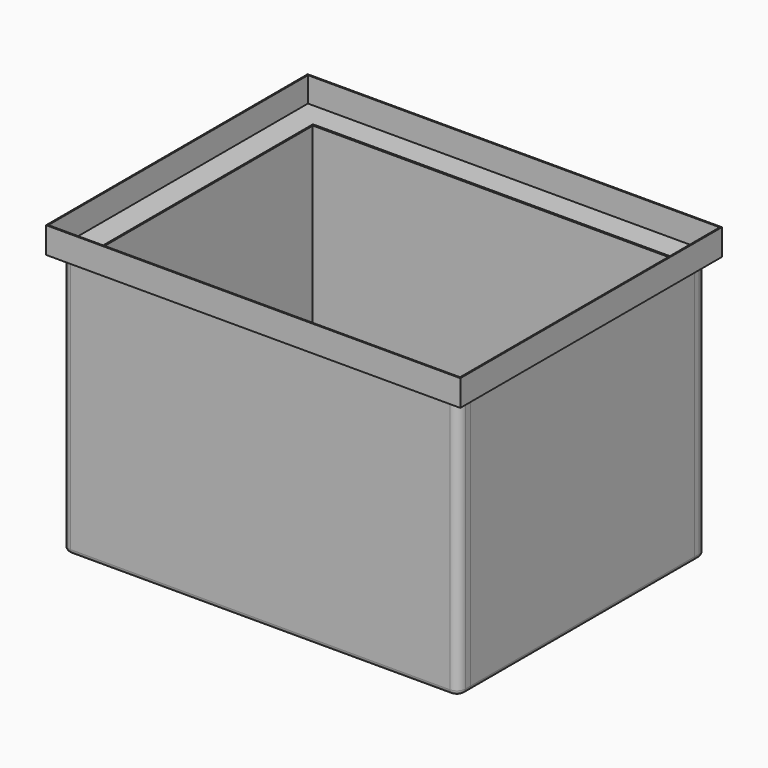
from build123d import *

# Parameters (mm, degrees)
F0_W      = 455
F0_H      = 17
F1_DEPTH  = 300
F2_R      = 10
F3_R      = 5
F4_W      = 17
F4_H      = 321
F5_DEPTH  = 300
F6_R      = 5
F9_W      = 475
F9_H      = 375
F9_W_2    = 415
F9_H_2    = 315
F10_DEPTH = 30
F11_T     = -1.4


with BuildPart() as f1:
    # F0 (on Top) → F1 (new body)
    with BuildSketch(Plane.XY):
        with Locations((0, -169)):
            Rectangle(F0_W, F0_H)
    extrude(amount=F1_DEPTH)

    # F2
    f2_edges = [f1.edges().sort_by_distance(p)[0] for p in [
        (-227.5, -177.5, 150),
        (227.5, -177.5, 150),
    ]]
    fillet(f2_edges, radius=F2_R)

    # F3
    f3_edges = [f1.edges().sort_by_distance(p)[0] for p in [
        (0, -177.5, 0),
    ]]
    fillet(f3_edges, radius=F3_R)


with BuildPart() as f5:
    # F4 (on Top) → F5 (new body)
    with BuildSketch(Plane.XY):
        with Locations((-219, 0)):
            Rectangle(F4_W, F4_H)
    extrude(amount=F5_DEPTH)

    # F6
    f6_edges = [f5.edges().sort_by_distance(p)[0] for p in [
        (-227.5, 0, 0),
    ]]
    fillet(f6_edges, radius=F6_R)


with BuildPart() as f7_1:
    # F7: instance of F1
    add(f1.part.mirror(Plane.XZ))


with BuildPart() as f8_1:
    # F8: instance of F5
    add(f5.part.mirror(Plane.YZ))


with BuildPart() as f10:
    # F9 (on face) → F10 (new body)
    with BuildSketch(Plane.XY.offset(300)):
        Rectangle(F9_W, F9_H)
        Rectangle(F9_W_2, F9_H_2, mode=Mode.SUBTRACT)
    extrude(amount=F10_DEPTH)

    # F11
    f11_openings = [f10.faces().sort_by_distance(p)[0] for p in [
        (231.448141, 0, 330),
        (0, 157.5, 315),
        (-207.5, 0, 315),
        (207.5, 0, 315),
        (0, -157.5, 315),
    ]]
    offset(amount=F11_T, openings=f11_openings)


solid = Compound([f1.part, f5.part, f7_1.part, f8_1.part, f10.part])
